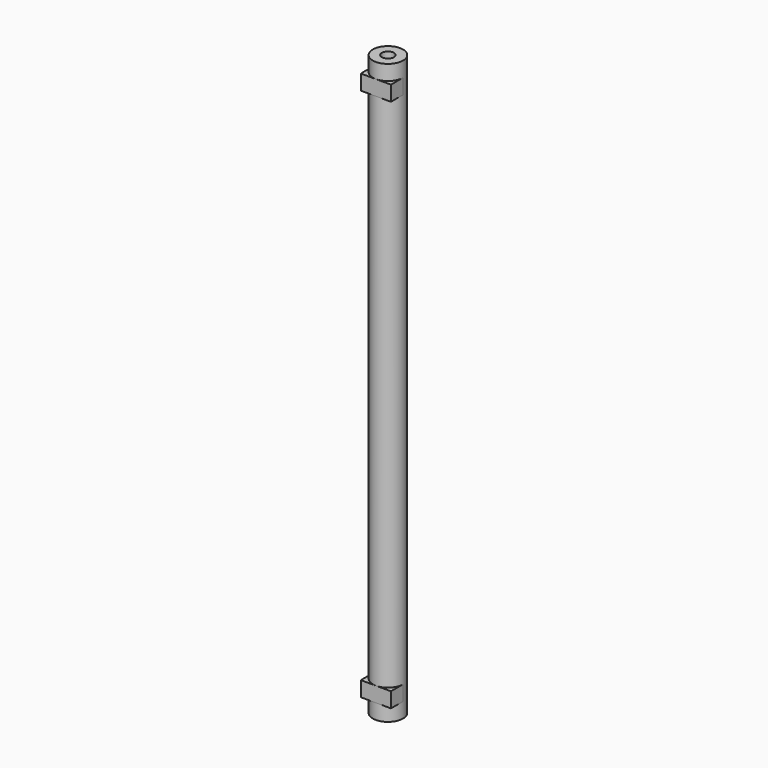
from build123d import *

# Parameters (mm, degrees)
CYLINDER006_R     = 5
CYLINDER006_DEPTH = 192
BOX003_W          = 10
BOX003_H          = 5
BOX003_DEPTH      = 5
BOX004_W          = 10
BOX004_H          = 5
BOX004_DEPTH      = 5
CYLINDER007_R     = 2
CYLINDER007_DEPTH = 10
CYLINDER008_R     = 2
CYLINDER008_DEPTH = 10


with BuildPart() as part:
    # Cylinder006 → Cylinder006 (join)
    with BuildSketch(Plane.XY):
        Circle(CYLINDER006_R)
    extrude(amount=CYLINDER006_DEPTH)

    # Box003 → Box003 (join)
    with BuildSketch(Plane(origin=(-5, -5, 182), x_dir=(1, 0, 0), z_dir=(0, 0, 1))):
        with Locations((5, 2.5)):
            Rectangle(BOX003_W, BOX003_H)
    extrude(amount=BOX003_DEPTH)

    # Box004 → Box004 (join)
    with BuildSketch(Plane(origin=(-5, -5, 5), x_dir=(1, 0, 0), z_dir=(0, 0, 1))):
        with Locations((5, 2.5)):
            Rectangle(BOX004_W, BOX004_H)
    extrude(amount=BOX004_DEPTH)

    # Cylinder007 → Cylinder007 (cut)
    with BuildSketch(Plane.XY):
        Circle(CYLINDER007_R)
    extrude(amount=CYLINDER007_DEPTH, mode=Mode.SUBTRACT)

    # Cylinder008 → Cylinder008 (cut)
    with BuildSketch(Plane.XY.offset(182)):
        Circle(CYLINDER008_R)
    extrude(amount=CYLINDER008_DEPTH, mode=Mode.SUBTRACT)


with BuildPart() as part_1:
    # Body004 placement: moved
    add(part.part.moved(Location((1, -43, -192))))


solid = part_1.part
